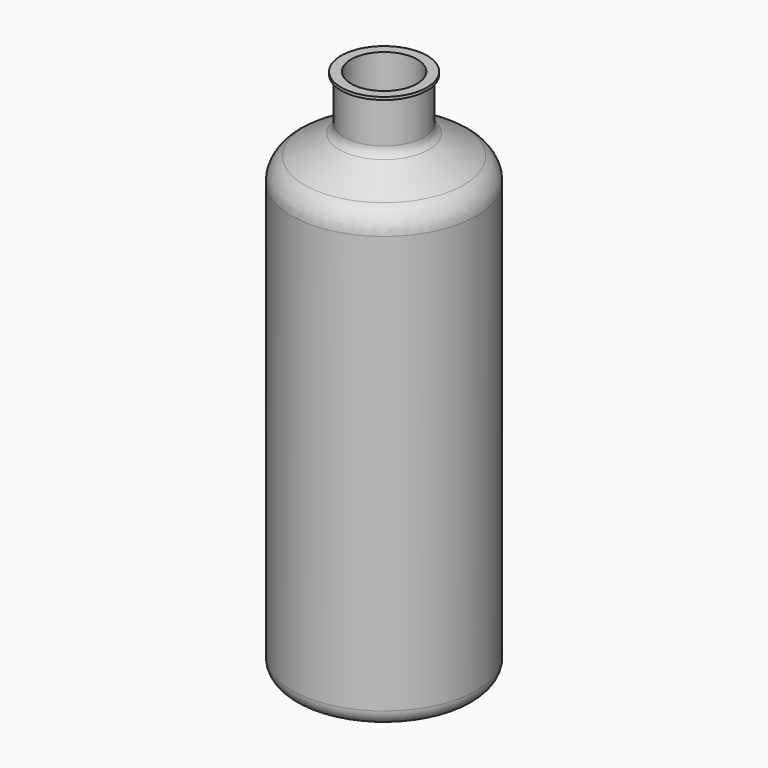
from build123d import *

# Parameters (mm, degrees)
F3_R = 7.62
F4_R = 12.7
F5_R = 5.08


with BuildPart() as f2:
    # F0 (on Front) → F2 (revolve)
    with BuildSketch(Plane.XZ):
        Polygon((0, -63.08393), (0, -66.25893), (44.45, -66.25893), (44.45, 149.64107), (19.05, 164.431536), (19.05, 187.74107), (20.699778, 187.74107), (20.699778, 189.058036), (15.875, 189.058036), (15.875, 162.606284), (41.275, 147.815819), (41.275, -63.08393), align=None)
    revolve(axis=Axis((0, 0, 62.210336), (0, 0, 1)))

    # F3
    f3_edges = [f2.edges().sort_by_distance(p)[0] for p in [
        (-44.45, 0, -66.25893),
    ]]
    fillet(f3_edges, radius=F3_R)

    # F4
    f4_edges = [f2.edges().sort_by_distance(p)[0] for p in [
        (-44.45, 0, 149.64107),
    ]]
    fillet(f4_edges, radius=F4_R)

    # F5
    f5_edges = [f2.edges().sort_by_distance(p)[0] for p in [
        (-19.05, 0, 164.431536),
    ]]
    fillet(f5_edges, radius=F5_R)


solid = f2.part
